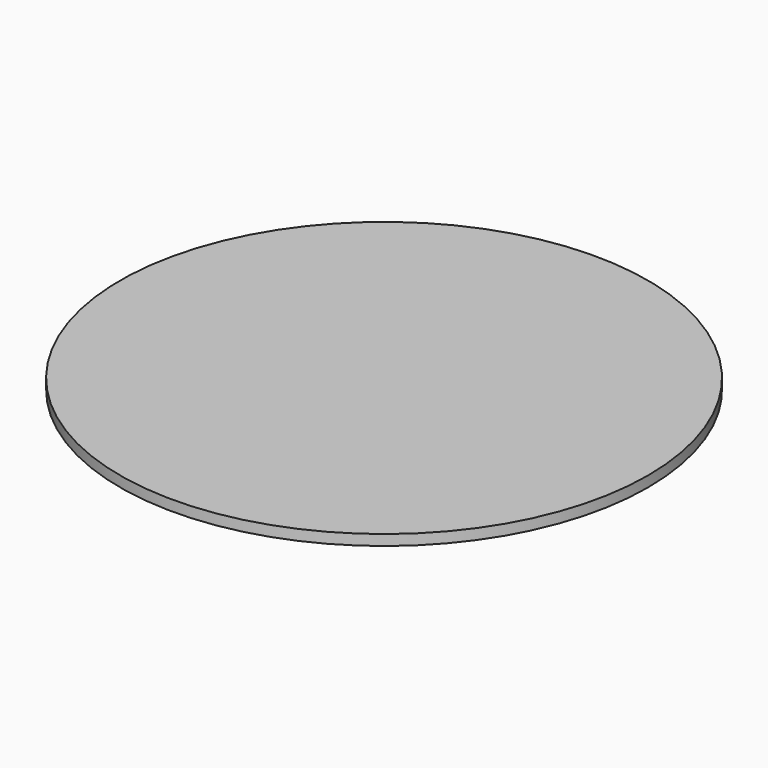
from build123d import *

# Parameters (mm, degrees)
CYLINDER_R        = 199
CYLINDER_DEPTH    = 10
TUBE_R            = 250
TUBE_R_2          = 201
TUBE_DEPTH        = 10
CYLINDER001_R     = 250
CYLINDER001_DEPTH = 10


with BuildPart() as inner:
    # Cylinder → Cylinder (new body)
    with BuildSketch(Plane.XY):
        Circle(CYLINDER_R)
    extrude(amount=CYLINDER_DEPTH)


with BuildPart() as outer:
    # Tube → Tube (new body)
    with BuildSketch(Plane.XY):
        Circle(TUBE_R)
        Circle(TUBE_R_2, mode=Mode.SUBTRACT)
    extrude(amount=TUBE_DEPTH)


with BuildPart() as full:
    # Cylinder001 → Cylinder001 (new body)
    with BuildSketch(Plane.XY):
        Circle(CYLINDER001_R)
    extrude(amount=CYLINDER001_DEPTH)


solid = Compound([inner.part, outer.part, full.part])
